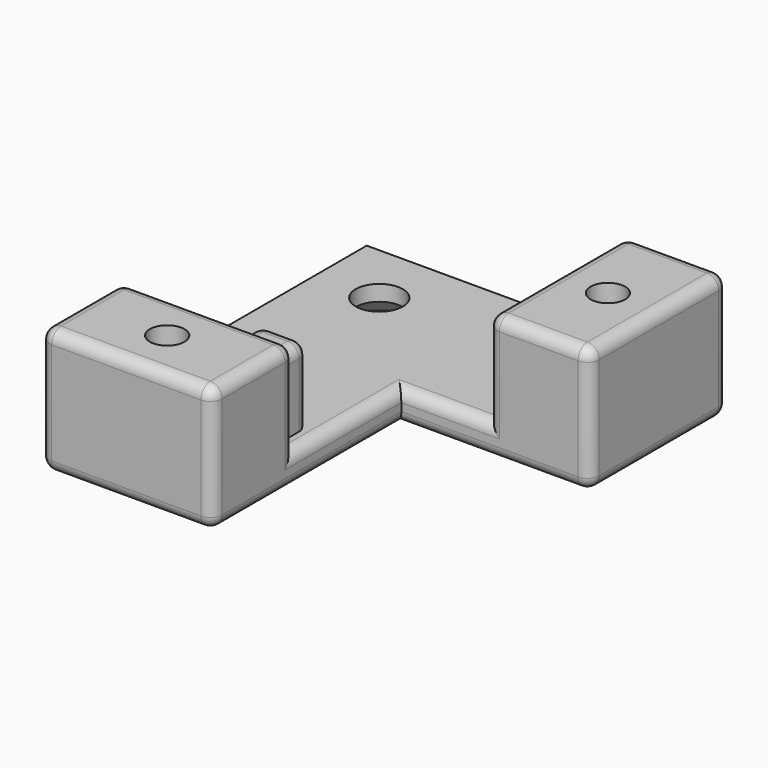
from build123d import *

# Parameters (mm, degrees)
RECTANGLE001_W       = 13
RECTANGLE001_H       = 22
PAD_DEPTH            = 12
RECTANGLE_FACE1_W    = 46
RECTANGLE_FACE1_H    = 22
PAD001_DEPTH         = 4
RECTANGLE002_FACE1_W = 22
RECTANGLE002_FACE1_H = 30
PAD002_DEPTH         = 4
RECTANGLE003_FACE1_W = 22
RECTANGLE003_FACE1_H = 13
PAD003_DEPTH         = 12
CIRCLE_R             = 3
POCKET_DEPTH         = 6
CIRCLE001_R          = 2.2
POCKET001_DEPTH      = 5
CIRCLE002_R          = 2.2
POCKET002_DEPTH      = 5
POCKET003_DEPTH      = 22
POCKET004_DEPTH      = 22
CHAMFER_SIZE         = 2
CHAMFER001_SIZE      = 1.7
FILLET_R             = 1.5
FILLET_FACE44_W      = 19
FILLET_FACE44_H      = 10.5
PAD004_DEPTH         = 0.01
SKETCH_W             = 6.073538
SKETCH_H             = 9.65966
PAD005_DEPTH         = 5
FILLET002_R          = 1.5


with BuildPart() as part:
    # Rectangle001 → Pad (new body)
    with BuildSketch(Plane(origin=(33, 0, 0), x_dir=(1, 0, 0), z_dir=(0, 0, 1))):
        with Locations((6.5, 11)):
            Rectangle(RECTANGLE001_W, RECTANGLE001_H)
    extrude(amount=PAD_DEPTH)

    # Rectangle Face1 → Pad001 (add)
    with BuildSketch(Plane.XY):
        with Locations((23, 11)):
            Rectangle(RECTANGLE_FACE1_W, RECTANGLE_FACE1_H)
    extrude(amount=-PAD001_DEPTH)

    # Rectangle002 Face1 → Pad002 (add)
    with BuildSketch(Plane(origin=(0, -30, 0), x_dir=(1, 0, 0), z_dir=(0, 0, 1))):
        with Locations((11, 15)):
            Rectangle(RECTANGLE002_FACE1_W, RECTANGLE002_FACE1_H)
    extrude(amount=-PAD002_DEPTH)

    # Rectangle003 Face1 → Pad003 (add)
    with BuildSketch(Plane(origin=(0, -30, 0), x_dir=(1, 0, 0), z_dir=(0, 0, 1))):
        with Locations((11, 6.5)):
            Rectangle(RECTANGLE003_FACE1_W, RECTANGLE003_FACE1_H)
    extrude(amount=PAD003_DEPTH)

    # Circle → Pocket (cut)
    with BuildSketch(Plane(origin=(8, 14, 0), x_dir=(1, 0, 0), z_dir=(0, 0, 1))):
        Circle(CIRCLE_R)
    extrude(amount=-POCKET_DEPTH, mode=Mode.SUBTRACT)

    # Circle001 → Pocket001 (cut)
    with BuildSketch(Plane(origin=(39.5, 11, 0), x_dir=(1, 0, 0), z_dir=(0, 0, 1))):
        Circle(CIRCLE001_R)
    extrude(amount=-POCKET001_DEPTH, mode=Mode.SUBTRACT)

    # Circle002 → Pocket002 (cut)
    with BuildSketch(Plane(origin=(11, -23.5, 0), x_dir=(1, 0, 0), z_dir=(0, 0, 1))):
        Circle(CIRCLE002_R)
    extrude(amount=-POCKET002_DEPTH, mode=Mode.SUBTRACT)

    # Circle002 → Pocket003 (cut)
    with BuildSketch(Plane(origin=(11, -23.5, 0), x_dir=(1, 0, 0), z_dir=(0, 0, 1))):
        Circle(CIRCLE002_R)
    extrude(amount=POCKET003_DEPTH, mode=Mode.SUBTRACT)

    # Circle001 → Pocket004 (cut)
    with BuildSketch(Plane(origin=(39.5, 11, 0), x_dir=(1, 0, 0), z_dir=(0, 0, 1))):
        Circle(CIRCLE001_R)
    extrude(amount=POCKET004_DEPTH, mode=Mode.SUBTRACT)

    # Chamfer
    chamfer_edges = [part.edges().sort_by_distance(p)[0] for p in [
        (5, 14, -4),
    ]]
    chamfer(chamfer_edges, length=CHAMFER_SIZE)

    # Chamfer001
    chamfer001_edges = [part.edges().sort_by_distance(p)[0] for p in [
        (8.8, -23.5, -4),
        (37.3, 11, -4),
    ]]
    chamfer(chamfer001_edges, length=CHAMFER001_SIZE)

    # Fillet
    fillet_edges = [part.edges().sort_by_distance(p)[0] for p in [
        (23, 22, -4),
        (0, -4, -4),
        (0, -17, 6),
        (0, -23.5, 12),
        (0, -30, 4),
        (11, -30, -4),
        (22, -15, -4),
        (34, 0, -4),
        (46, 11, -4),
        (11, -30, 12),
        (22, -23.5, 12),
        (22, -30, 4),
        (11, -17, 12),
        (22, -17, 6),
        (46, 11, 12),
        (33, 11, 12),
        (39.5, 0, 12),
        (46, 0, 4),
        (46, 22, 4),
        (33, 0, 6),
        (33, 22, 6),
        (39.5, 22, 12),
        (27.5, 0, 0),
        (22, -8.5, 0),
    ]]
    fillet(fillet_edges, radius=FILLET_R)

    # Fillet Face44 → Pad004 (add)
    with BuildSketch(Plane(origin=(33, 11, 5.25), x_dir=(0, 1, 0), z_dir=(-1, 0, 0))):
        Rectangle(FILLET_FACE44_W, FILLET_FACE44_H)
    extrude(amount=PAD004_DEPTH)

    # Sketch → Pad005 (join)
    with BuildSketch(Plane(origin=(33, -17, 0), x_dir=(-1, 0, 0), z_dir=(0, 1, 0))):
        with Locations((16.26208, 4.82983)):
            Rectangle(SKETCH_W, SKETCH_H)
    extrude(amount=PAD005_DEPTH)

    # Fillet002
    fillet002_edges = [part.edges().sort_by_distance(p)[0] for p in [
        (16.73792, -12, 9.65966),
        (19.774689, -12, 4.82983),
        (13.701151, -12, 4.82983),
        (13.701151, -14.5, 9.65966),
        (19.774689, -14.5, 9.65966),
    ]]
    fillet(fillet002_edges, radius=FILLET002_R)


solid = part.part
